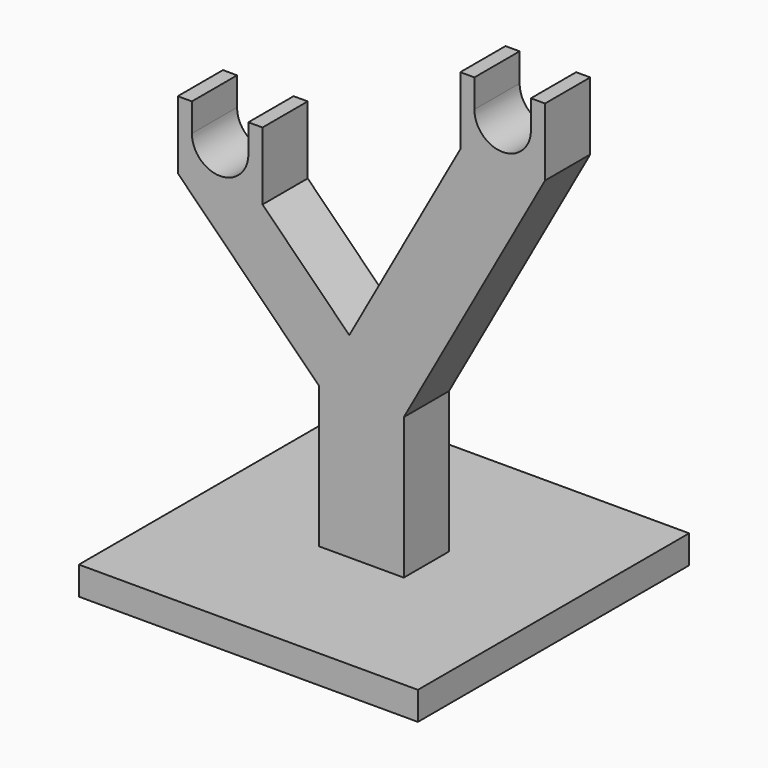
from build123d import *

# Parameters (mm, degrees)
F1_DEPTH      = 30
F1_DEPTH_BACK = 30
F0_W          = 15
F0_H          = 25
F0_W_2        = 2.5
F0_H_2        = 7
F0_H_3        = 5
F2_DEPTH      = 5
F2_DEPTH_BACK = 5


with BuildPart() as f1:
    # F0 (on Front) → F1 (new body, two sides)
    with BuildSketch(Plane.XZ) as f1_sk:
        Polygon((32.5, -57), (17.5, -57), (-5, -57), (-5, -62), (55, -62), (55, -57), align=None)
    extrude(amount=F1_DEPTH)
    extrude(f1_sk.sketch, amount=-F1_DEPTH_BACK)

    # F0 (on Front) → F2 (join, two sides)
    with BuildSketch(Plane.XZ) as f2_sk:
        with Locations((25, -44.5)):
            Rectangle(F0_W, F0_H)
        Polygon((22.857143, -22.357143), (17.5, -32), (32.5, -32), align=None)
        Polygon((42.5, 13), (22.857143, -22.357143), (32.5, -32), (57.5, 13), (55, 13), (45, 13), align=None)
        Polygon((5, -7), (-5, -7), (-7.5, -7), (17.5, -32), (22.857143, -22.357143), (7.5, -7), align=None)
        with Locations((56.25, 16.5)):
            Rectangle(F0_W_2, F0_H_2)
        with BuildLine():
            Line((45, 20), (45, 13))
            Line((45, 13), (55, 13))
            Line((55, 13), (55, 20))
            ThreePointArc((55, 20), (50, 15), (45, 20))
        make_face()
        with Locations((43.75, 16.5)):
            Rectangle(F0_W_2, F0_H_2)
        with Locations((6.25, -3.5)):
            Rectangle(F0_W_2, F0_H_2)
        with BuildLine():
            ThreePointArc((5, 0), (0, -5), (-5, 0))
            Line((-5, 0), (-5, -7))
            Line((-5, -7), (5, -7))
            Line((5, -7), (5, 0))
        make_face()
        with Locations((-6.25, -3.5)):
            Rectangle(F0_W_2, F0_H_2)
        with Locations((43.75, 22.5)):
            Rectangle(F0_W_2, F0_H_3)
        with Locations((56.25, 22.5)):
            Rectangle(F0_W_2, F0_H_3)
        with Locations((6.25, 2.5)):
            Rectangle(F0_W_2, F0_H_3)
        with Locations((-6.25, 2.5)):
            Rectangle(F0_W_2, F0_H_3)
    extrude(amount=F2_DEPTH)
    extrude(f2_sk.sketch, amount=-F2_DEPTH_BACK)


solid = f1.part
